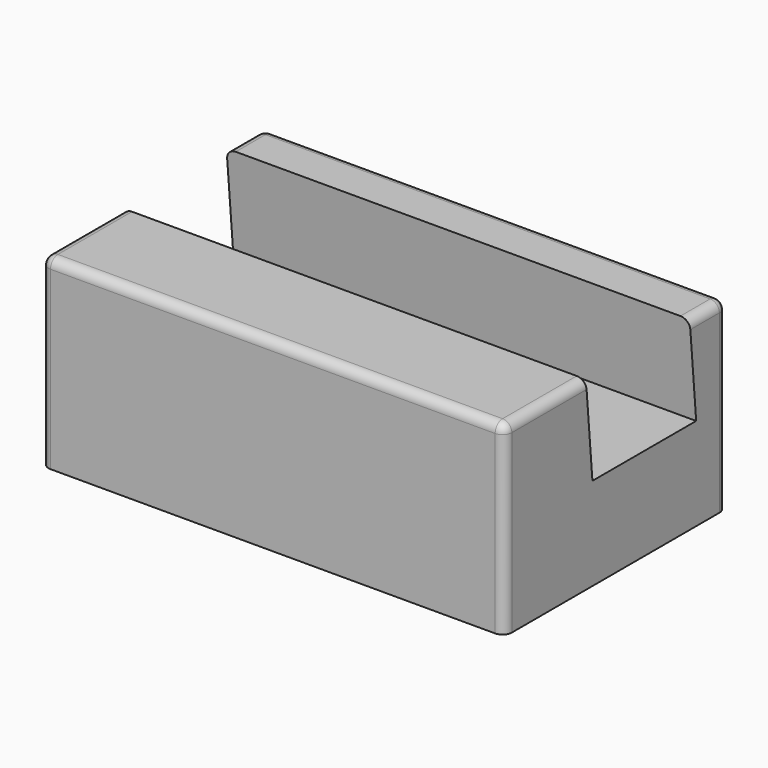
from build123d import *

# Parameters (mm, degrees)
F0_W     = 30
F0_H     = 20
F1_DEPTH = 25
F3_DEPTH = 50
F4_R     = 1


with BuildPart() as f1:
    # F0 (on Right) → F1 (new body, symmetric)
    with BuildSketch(Plane.YZ):
        with Locations((0, 10)):
            Rectangle(F0_W, F0_H)
    extrude(amount=F1_DEPTH, both=True)

    # F2 (on face) → F3 (cut)
    with BuildSketch(Plane.YZ.offset(25)):
        Polygon((10.874887, 10), (10, 20), (-4, 20), (-3.125113, 10), align=None)
    extrude(amount=-F3_DEPTH, mode=Mode.SUBTRACT)

    # F4
    f4_edges = [f1.edges().sort_by_distance(p)[0] for p in [
        (0, -15, 20),
        (25, -9.5, 20),
        (25, 12.5, 20),
        (0, 15, 20),
        (25, 15, 10),
        (25, -15, 10),
        (-25, -15, 10),
        (-25, -9.5, 20),
        (-25, 12.5, 20),
        (-25, 15, 10),
    ]]
    fillet(f4_edges, radius=F4_R)


solid = f1.part
